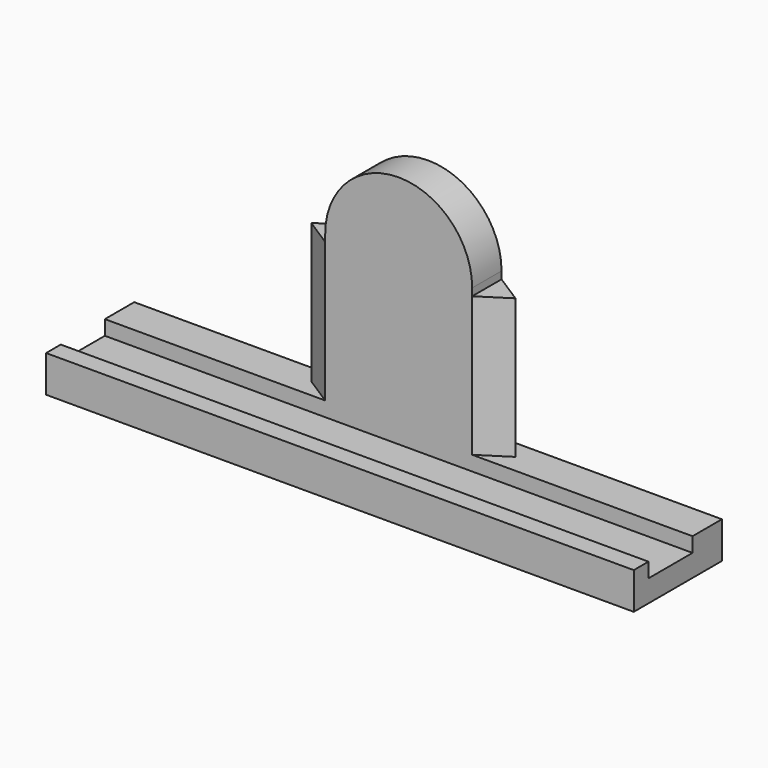
from build123d import *

# Parameters (mm, degrees)
F1_DEPTH = 6.35
F3_DEPTH = 24.13
F4_W     = 101.6
F4_H     = 6.35
F5_DEPTH = 6.35
F7_DEPTH = 12.7
F8_W     = 9.525
F8_H     = 2.54
F9_DEPTH = 114.282591


with BuildPart() as f1:
    # F0 (on Front) → F1 (new body)
    with BuildSketch(Plane.XZ):
        with BuildLine():
            Line((0, 25.4), (0, 0))
            Line((0, 0), (25.4, 0))
            Line((25.4, 0), (25.4, 25.4))
            ThreePointArc((25.4, 25.4), (12.7, 38.1), (0, 25.4))
        make_face()
    extrude(amount=F1_DEPTH)

    # F2 (on face) → F3 (join)
    with BuildSketch(Plane(origin=(0, 0, 0), x_dir=(1, 0, 0), z_dir=(0, 0, -1))):
        Polygon((-4.953, 3.175), (0, 0), (0, 6.35), align=None)
        Polygon((30.353, 3.175), (25.4, 6.35), (25.4, 0), align=None)
    extrude(amount=-F3_DEPTH)

    # F4 (on face) → F5 (join)
    with BuildSketch(Plane(origin=(0, 0, 0), x_dir=(1, 0, 0), z_dir=(0, 0, -1))):
        with Locations((12.7, 3.175)):
            Rectangle(F4_W, F4_H)
    extrude(amount=F5_DEPTH)

    # F6 (on face) → F7 (join)
    with BuildSketch(Plane.XZ.offset(6.35)):
        Polygon((25.4, 0), (0, 0), (-38.1, 0), (-38.1, -6.35), (63.5, -6.35), (63.5, 0), align=None)
    extrude(amount=F7_DEPTH)

    # F8 (on face) → F9 (cut)
    with BuildSketch(Plane.YZ.offset(63.5)):
        with Locations((-11.1125, -1.27)):
            Rectangle(F8_W, F8_H)
    extrude(amount=-F9_DEPTH, mode=Mode.SUBTRACT)


solid = f1.part
